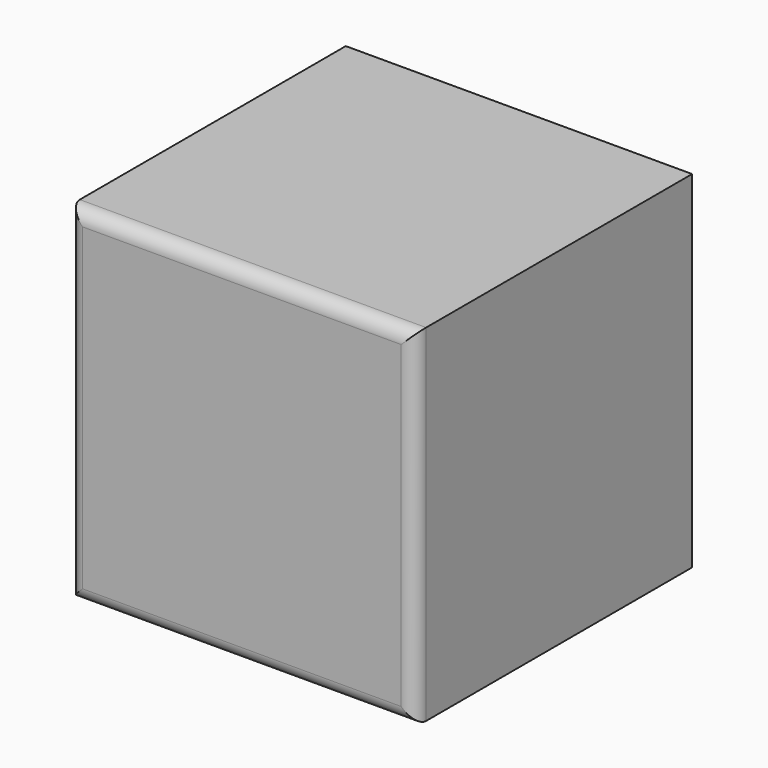
from build123d import *

# Parameters (mm, degrees)
F0_W     = 127
F0_H     = 127
F1_DEPTH = 63.5
F2_R     = 5.08


with BuildPart() as f1:
    # F0 (on Top) → F1 (new body, symmetric)
    with BuildSketch(Plane.XY):
        Rectangle(F0_W, F0_H)
    extrude(amount=F1_DEPTH, both=True)

    # F2
    f2_edges = [f1.edges().sort_by_distance(p)[0] for p in [
        (0, -63.5, 63.5),
        (63.5, -63.5, 0),
        (0, -63.5, -63.5),
        (-63.5, -63.5, 0),
    ]]
    fillet(f2_edges, radius=F2_R)


solid = f1.part
